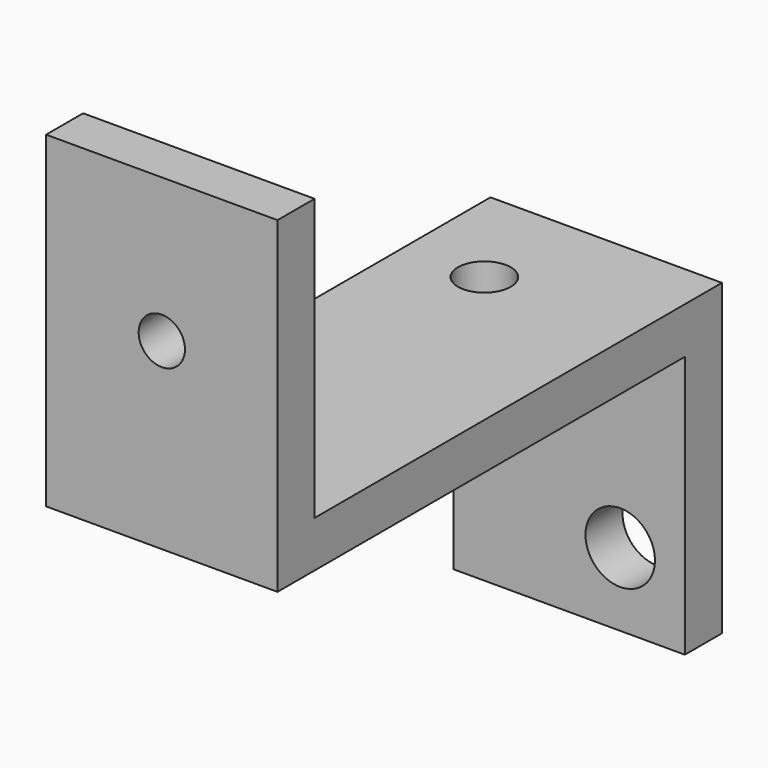
from build123d import *

# Parameters (mm, degrees)
F0_W     = 15
F0_H     = 33
F0_R     = 1.715
F1_DEPTH = 3
F2_W     = 15
F2_H     = 20
F2_R     = 2.25
F3_DEPTH = 3
F4_W     = 15
F4_H     = 18.209726
F4_R     = 1.5
F5_DEPTH = 3


with BuildPart() as f1:
    # F0 (on Top) → F1 (new body)
    with BuildSketch(Plane.XY):
        Rectangle(F0_W, F0_H)
        with Locations((-2.285, -4.955)):
            Circle(F0_R, mode=Mode.SUBTRACT)
        with Locations((-2.285, 12.485)):
            Circle(F0_R, mode=Mode.SUBTRACT)
    extrude(amount=F1_DEPTH)

    # F2 (on face) → F3 (join)
    with BuildSketch(Plane(origin=(0, 16.5, 0), x_dir=(-1, 0, 0), z_dir=(0, 1, 0))):
        with Locations((0, -7)):
            Rectangle(F2_W, F2_H)
        with Locations((-3.308824, -12.25)):
            Circle(F2_R, mode=Mode.SUBTRACT)
        with Locations((3.308824, -4.75)):
            Circle(F2_R, mode=Mode.SUBTRACT)
    extrude(amount=F3_DEPTH)

    # F4 (on face) → F5 (join)
    with BuildSketch(Plane.XZ.offset(16.5)):
        with Locations((0, 12.104863)):
            Rectangle(F4_W, F4_H)
        with Locations((0, 11.881463)):
            Circle(F4_R, mode=Mode.SUBTRACT)
    extrude(amount=-F5_DEPTH)


solid = f1.part
